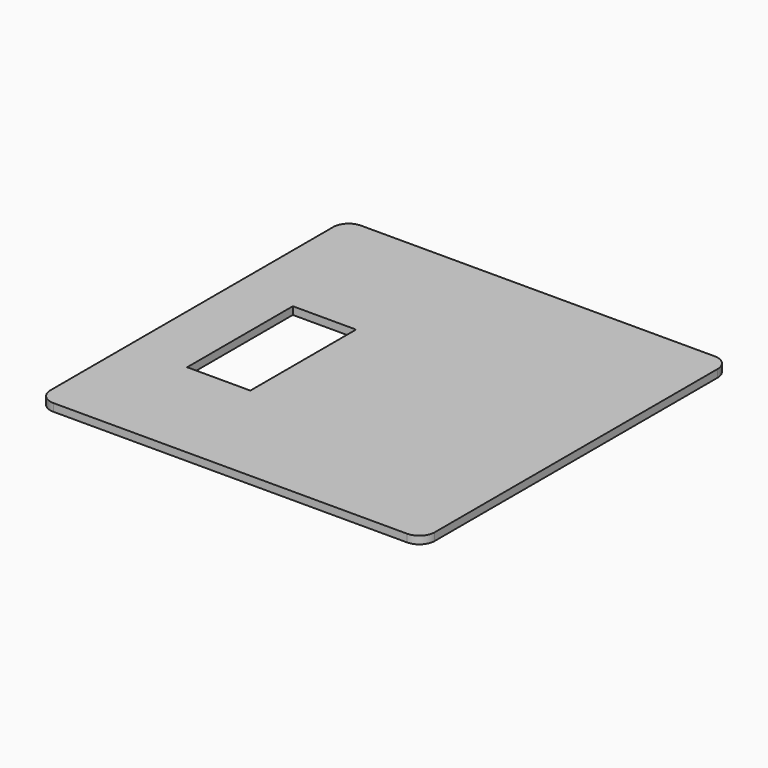
from build123d import *

# Parameters (mm, degrees)
F0_W     = 127
F0_H     = 127
F1_DEPTH = 2.54
F2_R     = 5.08
F3_W     = 20.884663
F3_H     = 43.656439
F4_DEPTH = 25.4


with BuildPart() as f1:
    # F0 (on Top) → F1 (new body)
    with BuildSketch(Plane.XY):
        Rectangle(F0_W, F0_H)
    extrude(amount=F1_DEPTH)

    # F2
    f2_edges = [f1.edges().sort_by_distance(p)[0] for p in [
        (63.5, -63.5, 1.27),
        (63.5, 63.5, 1.27),
        (-63.5, 63.5, 1.27),
        (-63.5, -63.5, 1.27),
    ]]
    fillet(f2_edges, radius=F2_R)

    # F3 (on face) → F4 (cut)
    with BuildSketch(Plane.XY.offset(2.54)):
        with Locations((-33.551299, -4.489437)):
            Rectangle(F3_W, F3_H)
    extrude(amount=-F4_DEPTH, mode=Mode.SUBTRACT)


solid = f1.part
